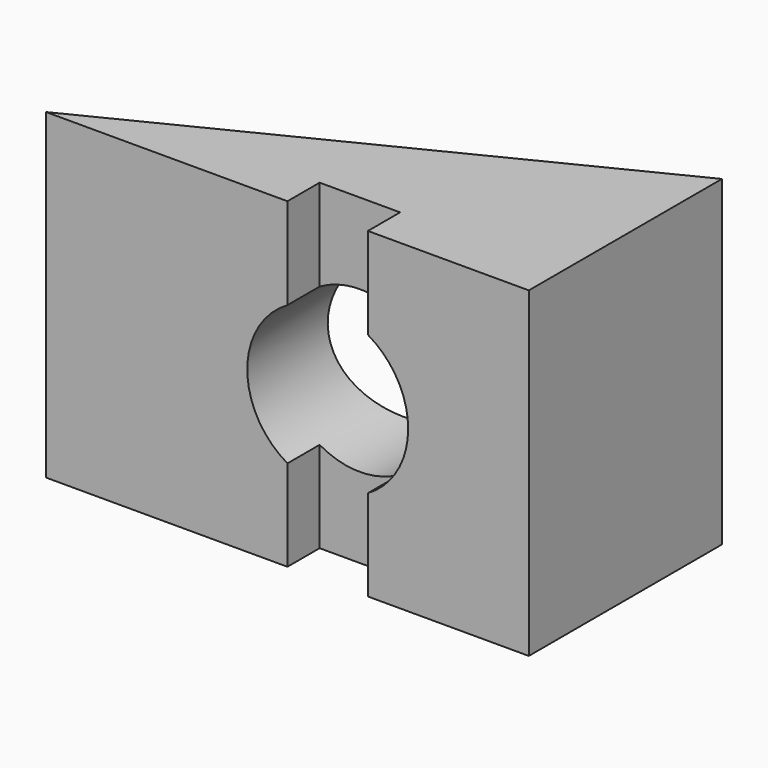
from build123d import *

# Parameters (mm, degrees)
F1_DEPTH = 101.6
F3_W     = 25.4
F3_H     = 101.6
F4_DEPTH = 12.7
F5_R     = 25.4
F6_DEPTH = 76.201


with BuildPart() as f1:
    # F0 (on Top) → F1 (new body)
    with BuildSketch(Plane.XY):
        Polygon((152.4, 76.2), (0, 0), (152.4, 0), align=None)
    extrude(amount=F1_DEPTH)

    # F3 (on face) → F4 (cut)
    with BuildSketch(Plane.XZ):
        with Locations((88.9, 50.8)):
            Rectangle(F3_W, F3_H)
    extrude(amount=-F4_DEPTH, mode=Mode.SUBTRACT)

    # F5 (on face) → F6 (cut, through all)
    with BuildSketch(Plane.XZ):
        with Locations((88.907994, 50.733309)):
            Circle(F5_R)
    extrude(amount=-F6_DEPTH, mode=Mode.SUBTRACT)


solid = f1.part
